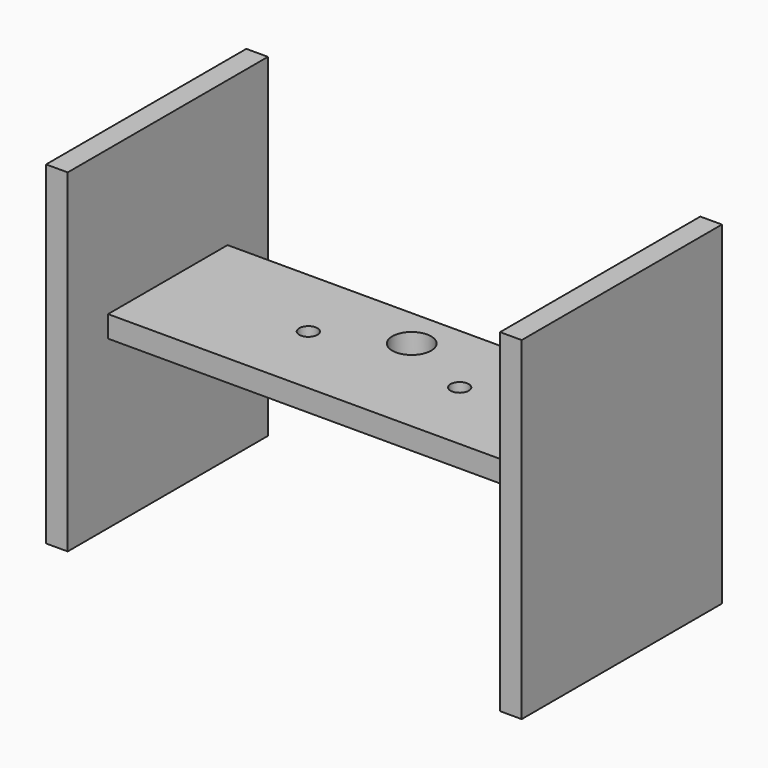
from build123d import *

# Parameters (mm, degrees)
F0_R     = 2.1
F0_R_2   = 4.5
F1_DEPTH = 5
F3_W     = 57.8866787255
F3_H     = 77.1822407842
F4_DEPTH = 5


with BuildPart() as f1:
    # F0 (on Top) → F1 (new body)
    with BuildSketch(Plane.XY):
        Polygon((50, 12.2797499597), (50, 17.2797499597), (-50, 17.2797499597), (-50, 12.2797499597), (-55, 12.2797499597), (-55, -12.2797499597), (-50, -12.2797499597), (-50, -17.2797499597), (50, -17.2797499597), (50, -12.2797499597), (55, -12.2797499597), (55, 12.2797499597), align=None)
        with Locations((-17.5, 0)):
            Circle(F0_R, mode=Mode.SUBTRACT)
        with Locations((17.5, 0)):
            Circle(F0_R, mode=Mode.SUBTRACT)
        with Locations((0, 8)):
            Circle(F0_R_2, mode=Mode.SUBTRACT)
    extrude(amount=F1_DEPTH)

    # F3 (on offset) → F4 (join)
    with BuildSketch(Plane.YZ.offset(55)):
        Rectangle(F3_W, F3_H)
    extrude(amount=-F4_DEPTH)

    # F5: F1 across plane


with BuildPart() as f1_1:
    add(f1.part)
    add(f1.part.mirror(Plane.YZ))


solid = f1_1.part
